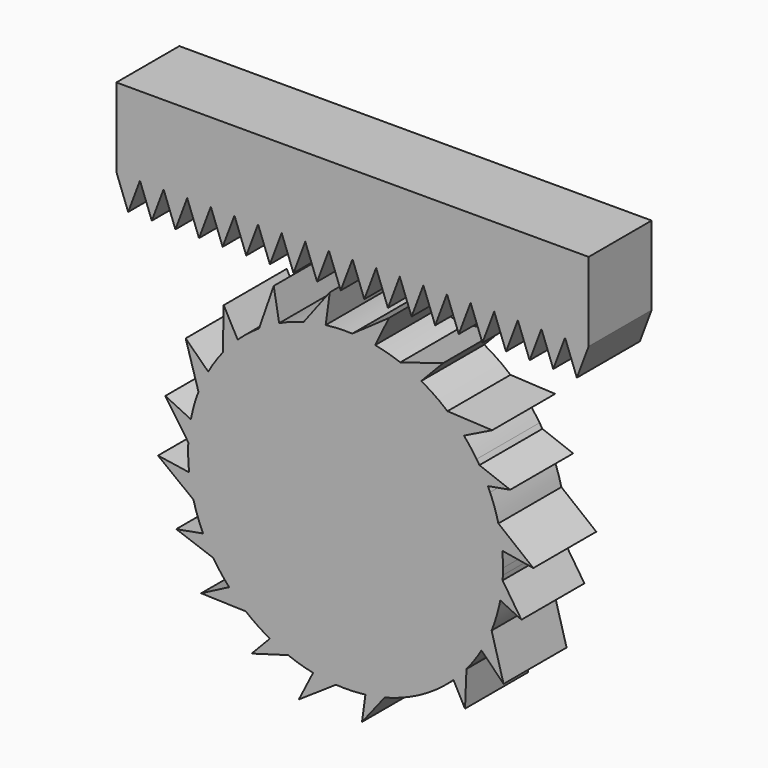
from build123d import *

# Parameters (mm, degrees)
F1_DEPTH = 25.4
F3_DEPTH = 25.4


with BuildPart() as f1:
    # F0 (on Front) → F1 (new body)
    with BuildSketch(Plane.XZ):
        Polygon((74.6370935708, 81.9392564637), (-77.7629064292, 81.9392564637), (-77.7629064292, 56.5392564637), (-70.1429064292, 56.5392564637), (-62.5229064292, 56.5392564637), (-54.9029064292, 56.5392564637), (-47.2829064292, 56.5392564637), (-39.6629064292, 56.5392564637), (-32.0429064292, 56.5392564637), (-24.4229064292, 56.5392564637), (-16.8029064292, 56.5392564637), (-9.1829064292, 56.5392564637), (-1.5629064292, 56.5392564637), (6.0570935708, 56.5392564637), (13.6770935708, 56.5392564637), (21.2970935708, 56.5392564637), (28.9170935708, 56.5392564637), (36.5370935708, 56.5392564637), (44.1570935708, 56.5392564637), (51.7770935708, 56.5392564637), (59.3970935708, 56.5392564637), (67.0170935708, 56.5392564637), (74.6370935708, 56.5392564637), align=None)
        Polygon((-70.1429064292, 56.5392564637), (-77.7629064292, 56.5392564637), (-73.9529064292, 46.3792564637), align=None)
        Polygon((-62.5229064292, 56.5392564637), (-70.1429064292, 56.5392564637), (-66.3329064292, 46.3792564637), align=None)
        Polygon((-54.9029064292, 56.5392564637), (-62.5229064292, 56.5392564637), (-58.7129064292, 46.3792564637), align=None)
        Polygon((-47.2829064292, 56.5392564637), (-54.9029064292, 56.5392564637), (-51.0929064292, 46.3792564637), align=None)
        Polygon((-39.6629064292, 56.5392564637), (-47.2829064292, 56.5392564637), (-43.4729064292, 46.3792564637), align=None)
        Polygon((-32.0429064292, 56.5392564637), (-39.6629064292, 56.5392564637), (-35.8529064292, 46.3792564637), align=None)
        Polygon((-24.4229064292, 56.5392564637), (-32.0429064292, 56.5392564637), (-28.2329064292, 46.3792564637), align=None)
        Polygon((-16.8029064292, 56.5392564637), (-24.4229064292, 56.5392564637), (-20.6129064292, 46.3792564637), align=None)
        Polygon((-9.1829064292, 56.5392564637), (-16.8029064292, 56.5392564637), (-12.9929064292, 46.3792564637), align=None)
        Polygon((-1.5629064292, 56.5392564637), (-9.1829064292, 56.5392564637), (-5.3729064292, 46.3792564637), align=None)
        Polygon((2.2470935708, 46.3792564637), (6.0570935708, 56.5392564637), (-1.5629064292, 56.5392564637), align=None)
        Polygon((9.8670935708, 46.3792564637), (13.6770935708, 56.5392564637), (6.0570935708, 56.5392564637), align=None)
        Polygon((17.4870935708, 46.3792564637), (21.2970935708, 56.5392564637), (13.6770935708, 56.5392564637), align=None)
        Polygon((25.1070935708, 46.3792564637), (28.9170935708, 56.5392564637), (21.2970935708, 56.5392564637), align=None)
        Polygon((32.7270935708, 46.3792564637), (36.5370935708, 56.5392564637), (28.9170935708, 56.5392564637), align=None)
        Polygon((40.3470935708, 46.3792564637), (44.1570935708, 56.5392564637), (36.5370935708, 56.5392564637), align=None)
        Polygon((47.9670935708, 46.3792564637), (51.7770935708, 56.5392564637), (44.1570935708, 56.5392564637), align=None)
        Polygon((55.5870935708, 46.3792564637), (59.3970935708, 56.5392564637), (51.7770935708, 56.5392564637), align=None)
        Polygon((63.2070935708, 46.3792564637), (67.0170935708, 56.5392564637), (59.3970935708, 56.5392564637), align=None)
        Polygon((70.8270935708, 46.3792564637), (74.6370935708, 56.5392564637), (67.0170935708, 56.5392564637), align=None)
    extrude(amount=F1_DEPTH)


with BuildPart() as f3:
    # F2 (on Front) → F3 (new body)
    with BuildSketch(Plane.XZ):
        with BuildLine():
            ThreePointArc((46.9480534398, -17.4986982738), (46.9800554936, -16.4580587956), (46.9907243386, -15.4169820306))
            ThreePointArc((46.9907243386, -15.4169820306), (46.9329445852, -12.994775505), (46.7597367618, -10.578078999))
            ThreePointArc((46.7597367618, -10.578078999), (46.2698358354, -6.8892278306), (45.5112121118, -3.2461362992))
            ThreePointArc((45.5112121118, -3.2461362992), (44.3341573591, 0.7956629421), (42.826495232, 4.7261277885))
            ThreePointArc((42.826495232, 4.7261277885), (42.4870752898, 5.494447586), (42.1349983875, 6.2570504075))
            ThreePointArc((42.1349983875, 6.2570504075), (40.8320710006, 8.8274022307), (39.3854907226, 11.3197372341))
            ThreePointArc((39.3854907226, 11.3197372341), (38.9375227741, 12.0302623396), (38.4778682778, 12.7332836426))
            ThreePointArc((38.4778682778, 12.7332836426), (36.5181991741, 15.4753272615), (34.3810221384, 18.0813933624))
            ThreePointArc((34.3810221384, 18.0813933624), (31.8263564811, 20.7871851578), (29.0804712423, 23.298706632))
            ThreePointArc((29.0804712423, 23.298706632), (24.9981834999, 26.4252250895), (20.6207462136, 29.1230452617))
            ThreePointArc((20.6207462136, 29.1230452617), (17.2947104492, 30.791910731), (13.8554314182, 32.2128208642))
            ThreePointArc((13.8554314182, 32.2128208642), (9.8511734607, 33.5118655932), (5.7531073775, 34.474909401))
            ThreePointArc((5.7531073775, 34.474909401), (2.0751855008, 35.0410511934), (-1.634312193, 35.3364369076))
            ThreePointArc((-1.634312193, 35.3364369076), (-5.8440111349, 35.34225212), (-10.0397372769, 34.999496903))
            ThreePointArc((-10.0397372769, 34.999496903), (-10.1323512948, 34.9879652914), (-10.2249439707, 34.97626355))
            ThreePointArc((-10.2249439707, 34.97626355), (-13.8052102972, 34.3898577684), (-17.334493814, 33.5494194497))
            ThreePointArc((-17.334493814, 33.5494194497), (-17.4244314566, 33.5244884487), (-17.5143231445, 33.4993922575))
            ThreePointArc((-17.5143231445, 33.4993922575), (-21.4298900664, 32.2291505301), (-25.2297552809, 30.6460514439))
            ThreePointArc((-25.2297552809, 30.6460514439), (-28.5442644734, 28.9544088477), (-31.726046563, 27.0246708876))
            ThreePointArc((-31.726046563, 27.0246708876), (-35.1442341994, 24.5675196347), (-38.3472404972, 21.835789477))
            ThreePointArc((-38.3472404972, 21.835789477), (-38.4838877808, 21.7086327706), (-38.6200669213, 21.58097483))
            ThreePointArc((-38.6200669213, 21.58097483), (-41.1085851227, 19.0707188744), (-43.4165195955, 16.3934915268))
            ThreePointArc((-43.4165195955, 16.3934915268), (-43.5331356474, 16.2477451562), (-43.649215386, 16.1015712791))
            ThreePointArc((-43.649215386, 16.1015712791), (-46.0184856872, 12.8500055874), (-48.1230141454, 9.4211455471))
            ThreePointArc((-48.1230141454, 9.4211455471), (-49.8223615512, 6.1105799981), (-51.2748043139, 2.6844982884))
            ThreePointArc((-51.2748043139, 2.6844982884), (-52.6105766053, -1.307657944), (-53.6112238557, -5.3967047862))
            ThreePointArc((-53.6112238557, -5.3967047862), (-53.6656945721, -5.6713423183), (-53.7186507859, -5.9462758964))
            ThreePointArc((-53.7186507859, -5.9462758964), (-54.2453465852, -9.3471591532), (-54.5405744779, -12.7758988463))
            ThreePointArc((-54.5405744779, -12.7758988463), (-54.5543603691, -13.0555464498), (-54.5666047625, -13.3352657873))
            ThreePointArc((-54.5666047625, -13.3352657873), (-54.57564353, -17.2651956068), (-54.2808593624, -21.1840643696))
            ThreePointArc((-54.2808593624, -21.1840643696), (-53.723273767, -24.8632931154), (-52.8978513671, -28.4918332794))
            ThreePointArc((-52.8978513671, -28.4918332794), (-51.6467439509, -32.511326933), (-50.0671302611, -36.4134314407))
            ThreePointArc((-50.0671302611, -36.4134314407), (-49.9115848391, -36.7527990639), (-49.7535497102, -37.0910144686))
            ThreePointArc((-49.7535497102, -37.0910144686), (-48.2260344731, -40.0704105276), (-46.5055762176, -42.9427139702))
            ThreePointArc((-46.5055762176, -42.9427139702), (-46.3021453005, -43.2557325383), (-46.0964196005, -43.5672477037))
            ThreePointArc((-46.0964196005, -43.5672477037), (-43.8512780464, -46.678428654), (-41.3777347859, -49.6112926539))
            ThreePointArc((-41.3777347859, -49.6112926539), (-38.7737925456, -52.2696964361), (-35.982231905, -54.7303498148))
            ThreePointArc((-35.982231905, -54.7303498148), (-32.6167348226, -57.2591891506), (-29.0534130767, -59.5006924705))
            ThreePointArc((-29.0534130767, -59.5006924705), (-28.647403239, -59.7307205146), (-28.2392975363, -59.9570093228))
            ThreePointArc((-28.2392975363, -59.9570093228), (-25.33683769, -61.4300679204), (-22.3460017993, -62.7142312538))
            ThreePointArc((-22.3460017993, -62.7142312538), (-21.9107559803, -62.8825106831), (-21.4739827409, -63.0467849253))
            ThreePointArc((-21.4739827409, -63.0467849253), (-17.9185997479, -64.2182829745), (-14.2866015905, -65.1247846512))
            ThreePointArc((-14.2866015905, -65.1247846512), (-10.6197009017, -65.758397466), (-6.9162557044, -66.1218799696))
            ThreePointArc((-6.9162557044, -66.1218799696), (-2.7073740148, -66.2050299627), (1.4939407692, -65.9394116583))
            ThreePointArc((1.4939407692, -65.9394116583), (2.0505227154, -65.8778853418), (2.6063926479, -65.8102276111))
            ThreePointArc((2.6063926479, -65.8102276111), (5.7287208626, -65.3135412537), (8.8141054153, -64.6235898205))
            ThreePointArc((8.8141054153, -64.6235898205), (9.3557384472, -64.4814539376), (9.8957718218, -64.3333563186))
            ThreePointArc((9.8957718218, -64.3333563186), (13.3729267983, -63.2229640687), (16.7613718388, -61.8657544732))
            ThreePointArc((16.7613718388, -61.8657544732), (20.1063985982, -60.2352877182), (23.3230946686, -58.3643274698))
            ThreePointArc((23.3230946686, -58.3643274698), (26.7858454227, -55.9703859056), (30.0384954006, -53.2979587093))
            ThreePointArc((30.0384954006, -53.2979587093), (30.5228445182, -52.8595450301), (31.0015155986, -52.4149388911))
            ThreePointArc((31.0015155986, -52.4149388911), (33.1716625099, -50.245852411), (35.2068986733, -47.9497061755))
            ThreePointArc((35.2068986733, -47.9497061755), (35.6220420538, -47.4452692661), (36.0306640633, -46.9355353402))
            ThreePointArc((36.0306640633, -46.9355353402), (38.1384982401, -44.0705030134), (40.0406869086, -41.0649991589))
            ThreePointArc((40.0406869086, -41.0649991589), (41.8005654496, -37.7862107575), (43.3157031451, -34.3873898408))
            ThreePointArc((43.3157031451, -34.3873898408), (44.7245893306, -30.4204465951), (45.8001869934, -26.3504725576))
            ThreePointArc((45.8001869934, -26.3504725576), (45.9555181469, -25.6201823726), (46.1000994632, -24.8876881647))
            ThreePointArc((46.1000994632, -24.8876881647), (46.5689110749, -21.9498451979), (46.8649428721, -18.9895967623))
            ThreePointArc((46.8649428721, -18.9895967623), (46.9119763782, -18.2444529031), (46.9480534398, -17.4986982738))
        make_face()
        with BuildLine():
            ThreePointArc((-51.2748043139, 2.6844982884), (-49.8223615512, 6.1105799981), (-48.1230141454, 9.4211455471))
            Line((-48.1230141454, 9.4211455471), (-55.3976447468, 16.5137719727))
            Line((-55.3976447468, 16.5137719727), (-51.2748043139, 2.6844982884))
        make_face()
        with BuildLine():
            ThreePointArc((-43.4165195955, 16.3934915268), (-41.1085851227, 19.0707188744), (-38.6200669213, 21.58097483))
            Line((-38.6200669213, 21.58097483), (-43.1105487158, 29.9374336224))
            Line((-43.1105487158, 29.9374336224), (-43.4165195955, 16.3934915268))
        make_face()
        with BuildLine():
            ThreePointArc((-31.726046563, 27.0246708876), (-28.5442644734, 28.9544088477), (-25.2297552809, 30.6460514439))
            Line((-25.2297552809, 30.6460514439), (-26.9828973096, 40.6536532059))
            Line((-26.9828973096, 40.6536532059), (-31.726046563, 27.0246708876))
        make_face()
        with BuildLine():
            ThreePointArc((-17.334493814, 33.5494194497), (-13.8052102972, 34.3898577684), (-10.2249439707, 34.97626355))
            Line((-10.2249439707, 34.97626355), (-8.900993754, 44.7071336272))
            Line((-8.900993754, 44.7071336272), (-17.334493814, 33.5494194497))
        make_face()
        with BuildLine():
            ThreePointArc((-1.634312193, 35.3364369076), (2.0751855008, 35.0410511934), (5.7531073775, 34.474909401))
            Line((5.7531073775, 34.474909401), (10.1835410763, 43.6180410986))
            Line((10.1835410763, 43.6180410986), (-1.634312193, 35.3364369076))
        make_face()
        with BuildLine():
            ThreePointArc((13.8554314182, 32.2128208642), (17.2947104492, 30.791910731), (20.6207462136, 29.1230452617))
            Line((20.6207462136, 29.1230452617), (27.6462499924, 36.4625204918))
            Line((27.6462499924, 36.4625204918), (13.8554314182, 32.2128208642))
        make_face()
        with BuildLine():
            ThreePointArc((29.0804712423, 23.298706632), (31.8263564811, 20.7871851578), (34.3810221384, 18.0813933624))
            Line((34.3810221384, 18.0813933624), (43.4930845668, 22.5753802672))
            Line((43.4930845668, 22.5753802672), (29.0804712423, 23.298706632))
        make_face()
        with BuildLine():
            ThreePointArc((39.3854907226, 11.3197372341), (40.8320710006, 8.8274022307), (42.1349983875, 6.2570504075))
            Line((42.1349983875, 6.2570504075), (49.3124478734, 7.5552162406))
            Line((49.3124478734, 7.5552162406), (39.3854907226, 11.3197372341))
        make_face()
        with BuildLine():
            ThreePointArc((45.5112121118, -3.2461362992), (46.2698358354, -6.8892278306), (46.7597367618, -10.578078999))
            Line((46.7597367618, -10.578078999), (56.7793024902, -12.2614989151))
            Line((56.7793024902, -12.2614989151), (45.5112121118, -3.2461362992))
        make_face()
        with BuildLine():
            Line((52.9386171528, -28.1858887303), (46.8649428721, -18.9895967623))
            ThreePointArc((46.8649428721, -18.9895967623), (46.5689110749, -21.9498451979), (46.1000994632, -24.8876881647))
            Line((46.1000994632, -24.8876881647), (52.9386171528, -28.1858887303))
        make_face()
        with BuildLine():
            Line((47.1837922551, -48.2900698166), (43.3157031451, -34.3873898408))
            ThreePointArc((43.3157031451, -34.3873898408), (41.8005654496, -37.7862107575), (40.0406869086, -41.0649991589))
            Line((40.0406869086, -41.0649991589), (47.1837922551, -48.2900698166))
        make_face()
        with BuildLine():
            Line((34.7388771247, -59.3698958456), (35.2068986733, -47.9497061755))
            ThreePointArc((35.2068986733, -47.9497061755), (33.1716625099, -50.245852411), (31.0015155986, -52.4149388911))
            Line((31.0015155986, -52.4149388911), (34.7388771247, -59.3698958456))
        make_face()
        with BuildLine():
            Line((1.5004291482, -73.9389223239), (8.8141054153, -64.6235898205))
            ThreePointArc((8.8141054153, -64.6235898205), (5.7287208626, -65.3135412537), (2.6063926479, -65.8102276111))
            Line((2.6063926479, -65.8102276111), (1.5004291482, -73.9389223239))
        make_face()
        with BuildLine():
            Line((-18.8842547484, -74.184982521), (-6.9162557044, -66.1218799696))
            ThreePointArc((-6.9162557044, -66.1218799696), (-10.6197009017, -65.758397466), (-14.2866015905, -65.1247846512))
            Line((-14.2866015905, -65.1247846512), (-18.8842547484, -74.184982521))
        make_face()
        with BuildLine():
            Line((-34.1284239582, -66.1093222189), (-22.3460017993, -62.7142312538))
            ThreePointArc((-22.3460017993, -62.7142312538), (-25.33683769, -61.4300679204), (-28.2392975363, -59.9570093228))
            Line((-28.2392975363, -59.9570093228), (-34.1284239582, -66.1093222189))
        make_face()
        with BuildLine():
            Line((-50.4057011031, -54.2719175237), (-35.982231905, -54.7303498148))
            ThreePointArc((-35.982231905, -54.7303498148), (-38.7737925456, -52.2696964361), (-41.3777347859, -49.6112926539))
            Line((-41.3777347859, -49.6112926539), (-50.4057011031, -54.2719175237))
        make_face()
        with BuildLine():
            Line((-58.4472142791, -38.6634140139), (-46.5055762176, -42.9427139702))
            ThreePointArc((-46.5055762176, -42.9427139702), (-48.2260344731, -40.0704105276), (-49.7535497102, -37.0910144686))
            Line((-49.7535497102, -37.0910144686), (-58.4472142791, -38.6634140139))
        make_face()
        with BuildLine():
            ThreePointArc((-52.8978513671, -28.4918332794), (-53.723273767, -24.8632931154), (-54.2808593624, -21.1840643696))
            Line((-54.2808593624, -21.1840643696), (-64.3296600658, -19.6849965176))
            Line((-64.3296600658, -19.6849965176), (-52.8978513671, -28.4918332794))
        make_face()
        with BuildLine():
            ThreePointArc((-54.5405744779, -12.7758988463), (-54.2453465852, -9.3471591532), (-53.7186507859, -5.9462758964))
            Line((-53.7186507859, -5.9462758964), (-61.9673876205, -1.967930043))
            Line((-61.9673876205, -1.967930043), (-54.5405744779, -12.7758988463))
        make_face()
    extrude(amount=F3_DEPTH)


solid = Compound([f1.part, f3.part])
